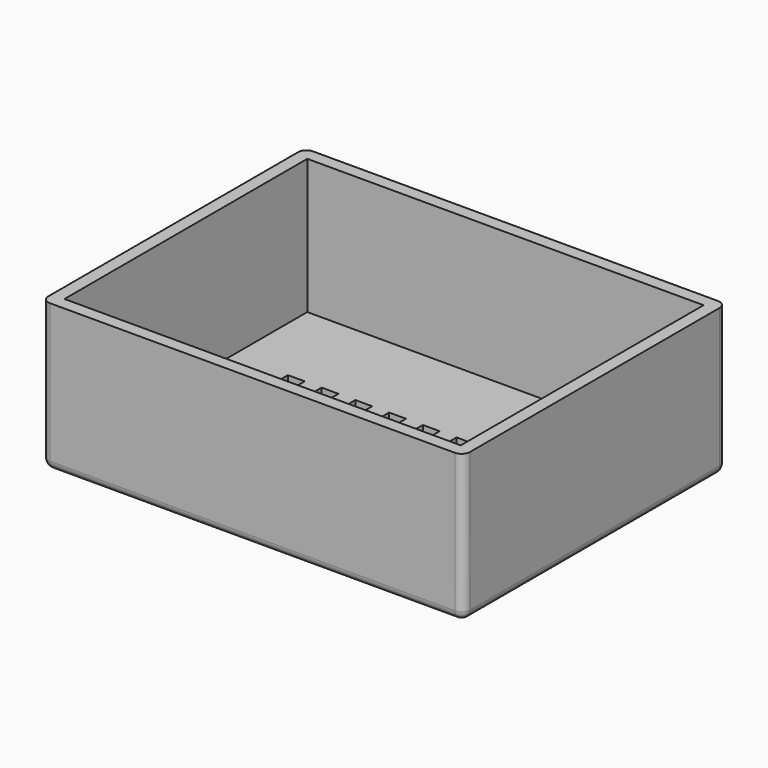
from build123d import *

# Parameters (mm, degrees)
SKETCH_W        = 50
SKETCH_H        = 39
PAD_DEPTH       = 17.5
SKETCH001_W     = 47
SKETCH001_H     = 36
POCKET_DEPTH    = 16
SKETCH002_W     = 3
SKETCH002_H     = 4
POCKET001_DEPTH = 1.6
SKETCH006_W     = 2
SKETCH006_H     = 12
SKETCH006_H_2   = 14
SKETCH006_H_3   = 18
SKETCH006_H_4   = 16
SKETCH006_H_5   = 13
SKETCH006_H_6   = 15
SKETCH006_H_7   = 17
SKETCH006_H_8   = 11
POCKET002_DEPTH = 1.7
FILLET_R        = 1


with BuildPart() as part:
    # Sketch → Pad (new body)
    with BuildSketch(Plane.XY):
        Rectangle(SKETCH_W, SKETCH_H)
    extrude(amount=PAD_DEPTH)

    # Sketch001 (on Face6 of Pad) → Pocket (cut)
    with BuildSketch(Plane.XY.offset(17.5)):
        Rectangle(SKETCH001_W, SKETCH001_H)
    extrude(amount=-POCKET_DEPTH, mode=Mode.SUBTRACT)

    # Sketch002 (on Face4 of Pocket) → Pocket001 (cut)
    with BuildSketch(Plane(origin=(0, 0, 0), x_dir=(1, 0, 0), z_dir=(0, 0, -1))):
        with Locations((21, 13.5)):
            Rectangle(SKETCH002_W, SKETCH002_H)
        with Locations((21, -13.5)):
            Rectangle(SKETCH002_W, SKETCH002_H)
    extrude(amount=-POCKET001_DEPTH, mode=Mode.SUBTRACT)

    # Sketch006 (on Face4 of Pocket001) → Pocket002 (cut)
    with BuildSketch(Plane(origin=(0, 0, 0), x_dir=(1, 0, 0), z_dir=(0, 0, -1))):
        with Locations((-16, -1)):
            Rectangle(SKETCH006_W, SKETCH006_H)
        with Locations((-12, 0)):
            Rectangle(SKETCH006_W, SKETCH006_H_2)
        with Locations((-8, 2)):
            Rectangle(SKETCH006_W, SKETCH006_H_3)
        with Locations((-4, 1)):
            Rectangle(SKETCH006_W, SKETCH006_H_4)
        with Locations((0, -0.5)):
            Rectangle(SKETCH006_W, SKETCH006_H_5)
        with Locations((4, 0.5)):
            Rectangle(SKETCH006_W, SKETCH006_H_6)
        with Locations((8, 1.5)):
            Rectangle(SKETCH006_W, SKETCH006_H_7)
        with Locations((12, 0.5)):
            Rectangle(SKETCH006_W, SKETCH006_H_6)
        with Locations((16, -1.5)):
            Rectangle(SKETCH006_W, SKETCH006_H_8)
    extrude(amount=-POCKET002_DEPTH, mode=Mode.SUBTRACT)

    # Fillet
    fillet_edges = [part.edges().sort_by_distance(p)[0] for p in [
        (25, -19.5, 8.75),
        (0, -19.5, 0),
        (25, 0, 0),
        (0, 19.5, 0),
        (25, 19.5, 8.75),
        (-25, 0, 0),
        (-25, 19.5, 8.75),
        (-25, -19.5, 8.75),
    ]]
    fillet(fillet_edges, radius=FILLET_R)


solid = part.part
